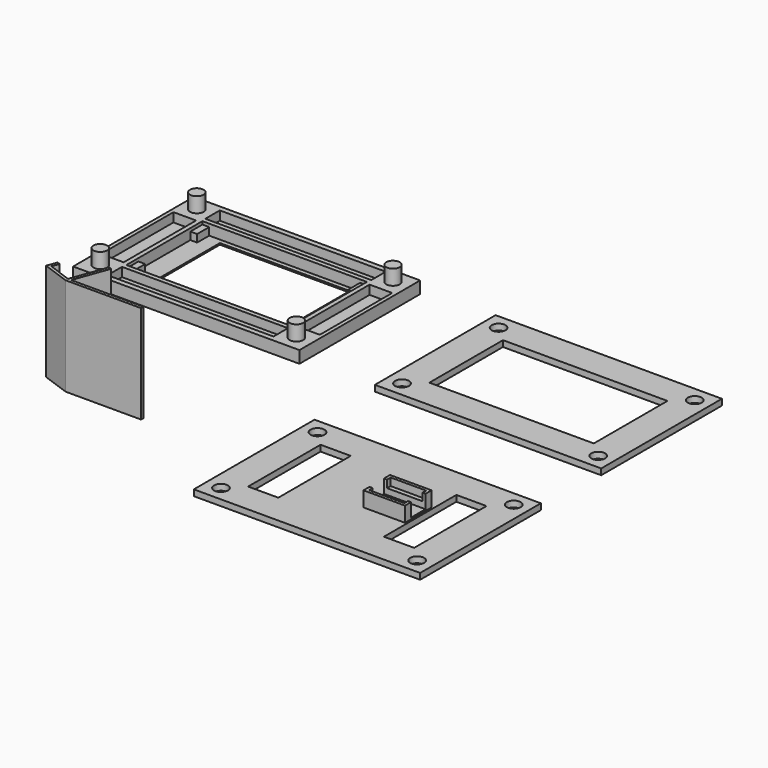
from build123d import *

# Parameters (mm, degrees)
SKETCH_W        = 150
SKETCH_H        = 100
PAD_DEPTH       = 8
SKETCH001_W     = 109
SKETCH001_H     = 63
POCKET_DEPTH    = 2
POCKET001_DEPTH = 5
SKETCH003_W     = 86
SKETCH003_H     = 57
POCKET002_DEPTH = 1
SKETCH004_R     = 4.5
PAD001_DEPTH    = 10
SKETCH005_W     = 110
SKETCH005_H     = 12
SKETCH005_W_2   = 15
SKETCH005_H_2   = 60
POCKET003_DEPTH = 6
SKETCH006_W     = 150
SKETCH006_H     = 100
PAD002_DEPTH    = 4
SKETCH010_R     = 4.6
SKETCH010_W     = 109
SKETCH010_H     = 61
POCKET004_DEPTH = 4.001
SKETCH011_W     = 150
SKETCH011_H     = 100
PAD003_DEPTH    = 4
SKETCH012_R     = 4.6
SKETCH012_W     = 20
SKETCH012_H     = 60
POCKET005_DEPTH = 4.001
SKETCH013_W     = 27.5
SKETCH013_H     = 22
PAD004_DEPTH    = 10
SKETCH014_W     = 23.5
SKETCH014_H     = 18
POCKET006_DEPTH = 5
SKETCH015_W     = 27.5
SKETCH015_H     = 12
POCKET007_DEPTH = 9
PAD005_DEPTH    = 65


with BuildPart() as front:
    # Sketch → Pad (new body)
    with BuildSketch(Plane.XY):
        with Locations((-100, 75)):
            Rectangle(SKETCH_W, SKETCH_H)
    extrude(amount=PAD_DEPTH)

    # Sketch001 (on Face6 of Pad) → Pocket (cut)
    with BuildSketch(Plane.XY.offset(8)):
        with Locations((-100, 75)):
            Rectangle(SKETCH001_W, SKETCH001_H)
    extrude(amount=-POCKET_DEPTH, mode=Mode.SUBTRACT)

    # Sketch002 (on Face11 of Pocket) → Pocket001 (cut)
    with BuildSketch(Plane.XY.offset(6)):
        Polygon((-150, 43.5), (-50, 43.5), (-50, 53.5), (-45.5, 53.5), (-45.5, 96.5), (-50, 96.5), (-50, 106.5), (-150, 106.5), (-150, 96.5), (-154.5, 96.5), (-154.5, 53.5), (-150, 53.5), align=None)
    extrude(amount=-POCKET001_DEPTH, mode=Mode.SUBTRACT)

    # Sketch003 (on Face22 of Pocket001) → Pocket002 (cut)
    with BuildSketch(Plane.XY.offset(1)):
        with Locations((-97.5, 75)):
            Rectangle(SKETCH003_W, SKETCH003_H)
    extrude(amount=-POCKET002_DEPTH, mode=Mode.SUBTRACT)

    # Sketch004 (on Face5 of Pocket002) → Pad001 (join)
    with BuildSketch(Plane.XY.offset(8)):
        with Locations((-165, 115)):
            Circle(SKETCH004_R)
        with Locations((-35, 115)):
            Circle(SKETCH004_R)
        with Locations((-35, 35)):
            Circle(SKETCH004_R)
        with Locations((-165, 35)):
            Circle(SKETCH004_R)
    extrude(amount=PAD001_DEPTH)

    # Sketch005 (on Face5 of Pad001) → Pocket003 (cut)
    with BuildSketch(Plane.XY.offset(8)):
        with Locations((-100, 115.5)):
            Rectangle(SKETCH005_W, SKETCH005_H)
        with Locations((-35, 75)):
            Rectangle(SKETCH005_W_2, SKETCH005_H_2)
        with Locations((-100, 34.5)):
            Rectangle(SKETCH005_W, SKETCH005_H)
        with Locations((-165, 75)):
            Rectangle(SKETCH005_W_2, SKETCH005_H_2)
    extrude(amount=-POCKET003_DEPTH, mode=Mode.SUBTRACT)


with BuildPart() as spacer:
    # Sketch006 → Pad002 (new body)
    with BuildSketch(Plane.XY):
        with Locations((100, 75)):
            Rectangle(SKETCH006_W, SKETCH006_H)
    extrude(amount=PAD002_DEPTH)

    # Sketch010 (on Face6 of Pad002) → Pocket004 (cut, through all)
    with BuildSketch(Plane.XY.offset(4)):
        with Locations((35, 115)):
            Circle(SKETCH010_R)
        with Locations((165, 115)):
            Circle(SKETCH010_R)
        with Locations((165, 35)):
            Circle(SKETCH010_R)
        with Locations((35, 35)):
            Circle(SKETCH010_R)
        with Locations((100, 75)):
            Rectangle(SKETCH010_W, SKETCH010_H)
    extrude(amount=-POCKET004_DEPTH, mode=Mode.SUBTRACT)


with BuildPart() as back:
    # Sketch011 → Pad003 (new body)
    with BuildSketch(Plane.XY):
        with Locations((100, -75)):
            Rectangle(SKETCH011_W, SKETCH011_H)
    extrude(amount=PAD003_DEPTH)

    # Sketch012 (on Face6 of Pad003) → Pocket005 (cut, through all)
    with BuildSketch(Plane.XY.offset(4)):
        with Locations((35, -35)):
            Circle(SKETCH012_R)
        with Locations((165, -35)):
            Circle(SKETCH012_R)
        with Locations((165, -115)):
            Circle(SKETCH012_R)
        with Locations((35, -115)):
            Circle(SKETCH012_R)
        with Locations((55, -75)):
            Rectangle(SKETCH012_W, SKETCH012_H)
        with Locations((145, -75)):
            Rectangle(SKETCH012_W, SKETCH012_H)
    extrude(amount=-POCKET005_DEPTH, mode=Mode.SUBTRACT)

    # Sketch013 (on Face6 of Pad003) → Pad004 (join)
    with BuildSketch(Plane.XY.offset(4)):
        with Locations((120, -75)):
            Rectangle(SKETCH013_W, SKETCH013_H)
    extrude(amount=PAD004_DEPTH)

    # Sketch014 (on Face23 of Pad004) → Pocket006 (cut)
    with BuildSketch(Plane.XY.offset(14)):
        with Locations((120, -75)):
            Rectangle(SKETCH014_W, SKETCH014_H)
    extrude(amount=-POCKET006_DEPTH, mode=Mode.SUBTRACT)

    # Sketch015 (on Face23 of Pocket006) → Pocket007 (cut)
    with BuildSketch(Plane.XY.offset(14)):
        with Locations((120, -75)):
            Rectangle(SKETCH015_W, SKETCH015_H)
    extrude(amount=-POCKET007_DEPTH, mode=Mode.SUBTRACT)


with BuildPart() as stand:
    # Sketch017 → Pad005 (new body)
    with BuildSketch(Plane.XY):
        Polygon((-100, -75), (-50, -75), (-50, -73), (-97.871657, -73), (-89.570124, -50.191725), (-91.449509, -49.507684), (-100.000013, -73), (-115.504941, -67.356668), (-113.79484, -62.658205), (-115.674225, -61.974164), (-118.068366, -68.552013), align=None)
    extrude(amount=PAD005_DEPTH)


solid = Compound([front.part, spacer.part, back.part, stand.part])
